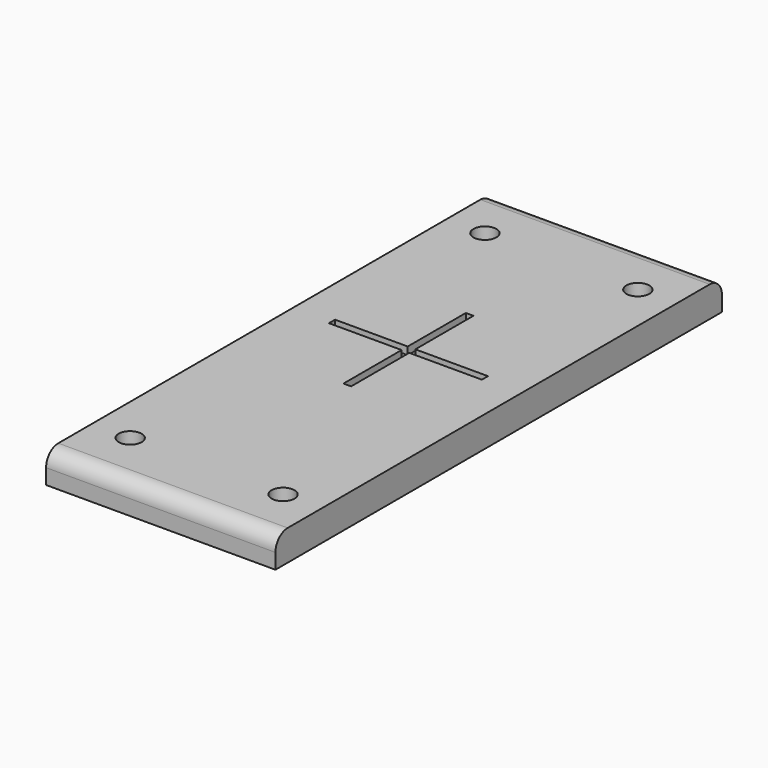
from build123d import *

# Parameters (mm, degrees)
CYLINDER041_R     = 1.5
CYLINDER041_DEPTH = 4
CYLINDER040_R     = 1.5
CYLINDER040_DEPTH = 4
CYLINDER042_R     = 1.5
CYLINDER042_DEPTH = 4
BOX010_W          = 1
BOX010_H          = 20
BOX010_DEPTH      = 1
BOX011_W          = 1
BOX011_H          = 20
BOX011_DEPTH      = 1
CYLINDER039_R     = 1.5
CYLINDER039_DEPTH = 4
BOX004_W          = 30
BOX004_H          = 73
BOX004_DEPTH      = 4
FILLET004_R       = 2


with BuildPart() as payload_plate_screw005:
    # Cylinder041 → Cylinder041 (new body)
    with BuildSketch(Plane(origin=(-10, 25, 152.7), x_dir=(1, 0, 0), z_dir=(0, 0, 1))):
        Circle(CYLINDER041_R)
    extrude(amount=CYLINDER041_DEPTH)


with BuildPart() as payload_plate_screw004:
    # Cylinder040 → Cylinder040 (new body)
    with BuildSketch(Plane(origin=(-10, -33, 152.7), x_dir=(1, 0, 0), z_dir=(0, 0, 1))):
        Circle(CYLINDER040_R)
    extrude(amount=CYLINDER040_DEPTH)


with BuildPart() as payload_plate_screw006:
    # Cylinder042 → Cylinder042 (new body)
    with BuildSketch(Plane(origin=(10, 25, 152.7), x_dir=(1, 0, 0), z_dir=(0, 0, 1))):
        Circle(CYLINDER042_R)
    extrude(amount=CYLINDER042_DEPTH)


with BuildPart() as center_plate001:
    # Box010 → Box010 (new body)
    with BuildSketch(Plane(origin=(-0.5, -10, 155.7), x_dir=(1, 0, 0), z_dir=(0, 0, 1))):
        with Locations((0.5, 10)):
            Rectangle(BOX010_W, BOX010_H)
    extrude(amount=BOX010_DEPTH)


with BuildPart() as payload_plate_center:
    # Box011 → Box011 (new body)
    with BuildSketch(Plane(origin=(10, -0.5, 155.7), x_dir=(0, 1, 0), z_dir=(0, 0, 1))):
        with Locations((0.5, 10)):
            Rectangle(BOX011_W, BOX011_H)
    extrude(amount=BOX011_DEPTH)

    # Fusion018: union center-plate001
    add(center_plate001.part)


with BuildPart() as payload_plate_screw_holes:
    # Cylinder039 → Cylinder039 (new body)
    with BuildSketch(Plane(origin=(10, -33, 152.7), x_dir=(1, 0, 0), z_dir=(0, 0, 1))):
        Circle(CYLINDER039_R)
    extrude(amount=CYLINDER039_DEPTH)

    # Compound003: union payload-plate-screw005, payload-plate-screw004, payload-plate-screw006, payload-plate-center
    add(payload_plate_screw005.part)
    add(payload_plate_screw004.part)
    add(payload_plate_screw006.part)
    add(payload_plate_center.part)


with BuildPart() as payload_plate:
    # Box004 → Box004 (new body)
    with BuildSketch(Plane(origin=(-15, -40.5, 152.7), x_dir=(1, 0, 0), z_dir=(0, 0, 1))):
        with Locations((15, 36.5)):
            Rectangle(BOX004_W, BOX004_H)
    extrude(amount=BOX004_DEPTH)

    # Fillet004
    fillet004_edges = [payload_plate.edges().sort_by_distance(p)[0] for p in [
        (0, -40.5, 156.7),
        (0, 32.5, 156.7),
    ]]
    fillet(fillet004_edges, radius=FILLET004_R)

    # Cut035: cut payload-plate-screw-holes
    add(payload_plate_screw_holes.part, mode=Mode.SUBTRACT)


solid = payload_plate.part
